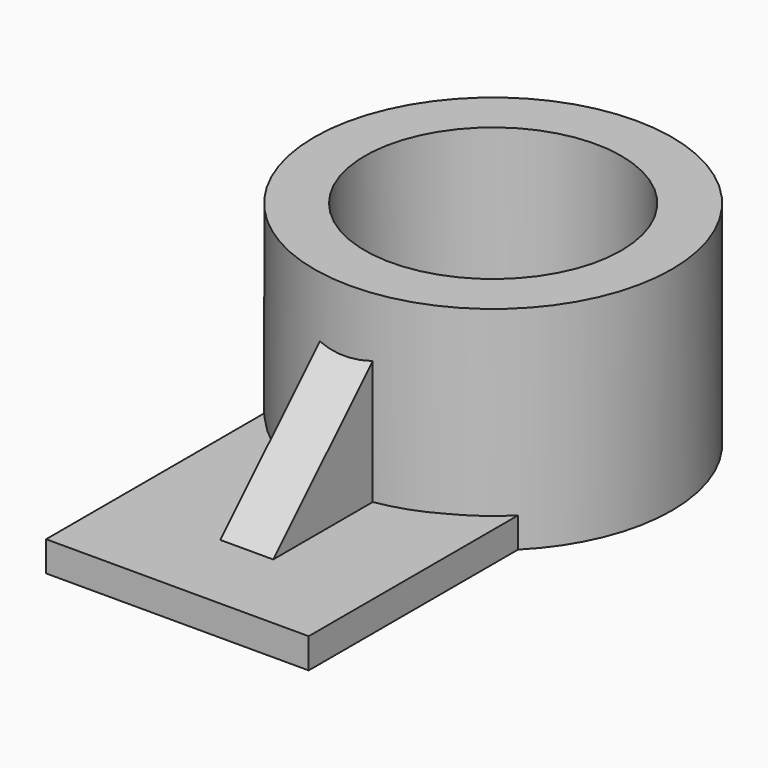
from build123d import *

# Parameters (mm, degrees)
F0_R     = 54.489466
F1_DEPTH = 64.704746
F2_R     = 39.061094
F3_DEPTH = 64.705746
F5_DEPTH = 9.179119
F7_DEPTH = 37.812758
F9_DEPTH = 61.671157


with BuildPart() as f1:
    # F0 (on Top) → F1 (new body)
    with BuildSketch(Plane.XY):
        with Locations((0, 42.404458)):
            Circle(F0_R)
    extrude(amount=F1_DEPTH)

    # F2 (on face) → F3 (cut, through all)
    with BuildSketch(Plane.XY.offset(64.704746)):
        with Locations((0, 42.404458)):
            Circle(F2_R)
    extrude(amount=-F3_DEPTH, mode=Mode.SUBTRACT)

    # F4 (on Top) → F5 (join)
    with BuildSketch(Plane.XY):
        with BuildLine():
            ThreePointArc((38.466547, 5.618665), (-2.008565, -13.031675), (-41.539069, 7.545232))
            Line((-41.539069, 7.545232), (-41.539069, -75.912714))
            Line((-41.539069, -75.912714), (38.466547, -75.912714))
            Line((38.466547, -75.912714), (38.466547, 5.618665))
        make_face()
    extrude(amount=F5_DEPTH)

    # F6 (on face) → F7 (join)
    with BuildSketch(Plane.XY.offset(9.179119)):
        with BuildLine():
            ThreePointArc((7.180691, -12.414793), (-0.887242, -13.282551), (-8.9518, -12.38397))
            Line((-8.9518, -12.38397), (-8.9518, -50.31085))
            Line((-8.9518, -50.31085), (7.180691, -50.31085))
            Line((7.180691, -50.31085), (7.180691, -12.414793))
        make_face()
    extrude(amount=F7_DEPTH)

    # F8 (on face) → F9 (cut, through all)
    with BuildSketch(Plane.YZ.offset(7.180691)):
        Polygon((-50.31085, 9.179119), (-12.414793, 46.991877), (-50.31085, 46.991877), align=None)
    extrude(amount=-F9_DEPTH, mode=Mode.SUBTRACT)


solid = f1.part
